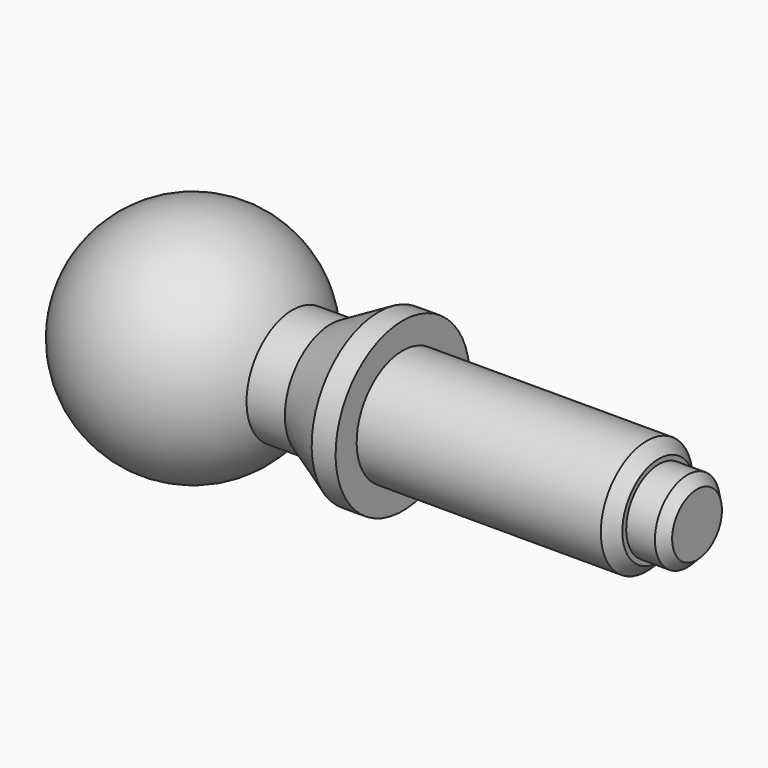
from build123d import *

# Parameters (mm, degrees)
F2_SIZE2 = 2
F2_SIZE  = 2
F3_SIZE2 = 2.5
F3_SIZE  = 2.5


with BuildPart() as f1:
    # F0 (on Front) → F1 (revolve)
    with BuildSketch(Plane.XZ):
        with BuildLine():
            Line((-129.28461, 0), (0, 0))
            Line((0, 0), (0, 8.5))
            Line((0, 8.5), (-8, 8.5))
            Line((-8, 8.5), (-8, 12))
            Line((-8, 12), (-61.5, 12))
            Line((-61.5, 12), (-61.5, 17.5))
            Line((-61.5, 17.5), (-66.5, 17.5))
            Line((-66.5, 17.5), (-76.5, 12))
            Line((-76.5, 12), (-84.5, 12))
            ThreePointArc((-84.5, 12), (-111.496267, 23.18222), (-129.28461, 0))
        make_face()
    revolve(axis=Axis((-64.642305, 0, 0), (1, 0, 0)))

    # F2
    f2_edges = [f1.edges().sort_by_distance(p)[0] for p in [
        (0, 0, -8.5),
    ]]
    chamfer(f2_edges, length=F2_SIZE, length2=F2_SIZE2)

    # F3
    f3_edges = [f1.edges().sort_by_distance(p)[0] for p in [
        (-8, 0, -12),
    ]]
    chamfer(f3_edges, length=F3_SIZE, length2=F3_SIZE2)


solid = f1.part
